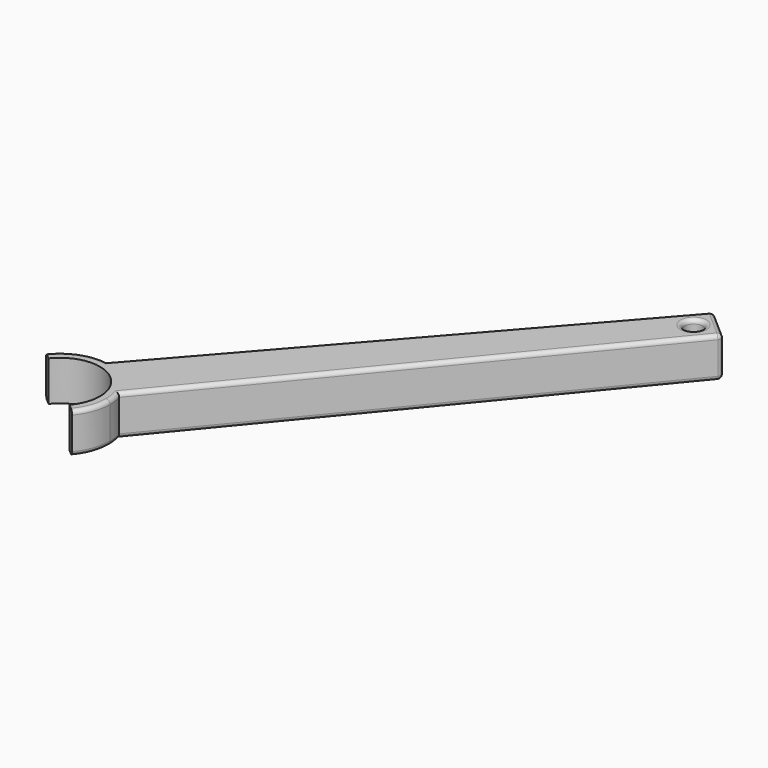
from build123d import *

# Parameters (mm, degrees)
F0_R     = 2.25
F1_DEPTH = 10
F2_R     = 1


with BuildPart() as f1:
    # F0 (on Top) → F1 (new body)
    with BuildSketch(Plane.XY):
        with BuildLine():
            ThreePointArc((9.5009885105, -8.1228823285), (11.7263028355, -4.3294135641), (12.5, 0))
            ThreePointArc((12.5, 0), (12.3770625391, 1.7488061363), (12.0106683356, 3.4632132668))
            ThreePointArc((12.0106683356, 3.4632132668), (8.2330297979, 9.4057014808), (1.8427561446, 12.3634238701))
            ThreePointArc((1.8427561446, 12.3634238701), (-4.5491075048, 11.6428356044), (-9.7363625852, 7.8392119253))
            Line((-9.7363625852, 7.8392119253), (-7.8092353717, 6.240187919))
            ThreePointArc((-7.8092353717, 6.240187919), (3.3061601135, 9.4336317322), (9.9962043974, 0))
            ThreePointArc((9.9962043974, 0), (9.3710716558, -3.4795284703), (7.573861297, -6.5238583222))
            Line((7.573861297, -6.5238583222), (9.5009885105, -8.1228823285))
        make_face()
        with BuildLine():
            ThreePointArc((1.8427561446, 12.3634238701), (8.2330297979, 9.4057014808), (12.0106683356, 3.4632132668))
            Line((12.0106683356, 3.4632132668), (88.4712676923, 96.0025354569))
            Line((88.4712676923, 96.0025354569), (80.951972171, 102.5949701258))
            Line((80.951972171, 102.5949701258), (1.8427561446, 12.3634238701))
        make_face()
        with Locations((81.4098492265, 95.7288071513)):
            Circle(F0_R, mode=Mode.SUBTRACT)
    extrude(amount=F1_DEPTH)

    # F2
    f2_edges = [f1.edges().sort_by_distance(p)[0] for p in [
        (41.397364, 57.479197, 10),
        (12.216679, -2.646271, 10),
        (50.240968, 49.732874, 10),
        (-4.549108, 11.642836, 10),
        (12.216679, -2.646271, 0),
        (-4.549108, 11.642836, 0),
        (50.240968, 49.732874, 0),
        (41.397364, 57.479197, 0),
        (79.159849, 95.728807, 0),
        (84.71162, 99.298753, 0),
        (79.159849, 95.728807, 10),
        (88.471268, 96.002535, 5),
        (80.951972, 102.59497, 5),
        (84.71162, 99.298753, 10),
    ]]
    fillet(f2_edges, radius=F2_R)


solid = f1.part
